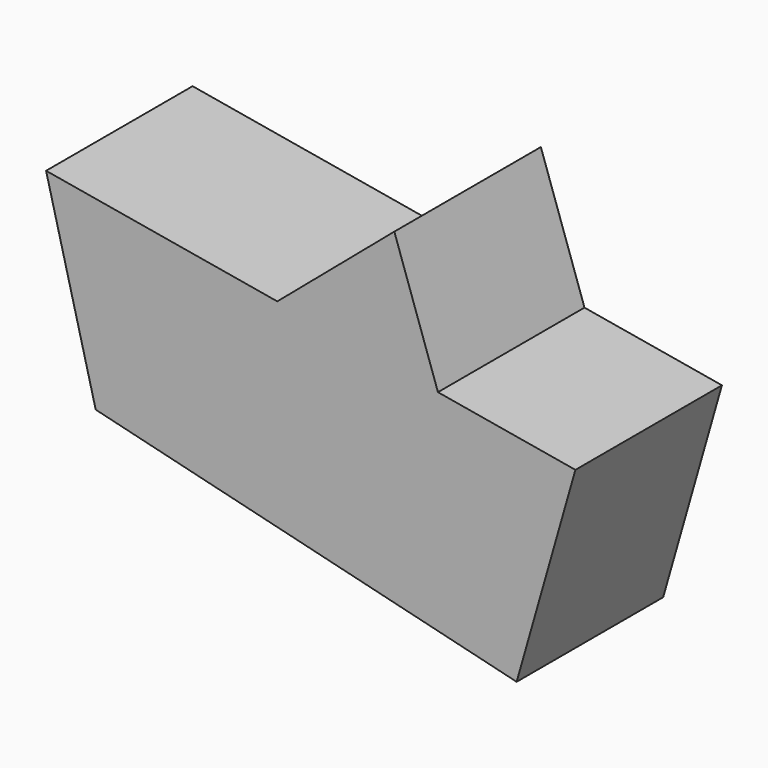
from build123d import *

# Parameters (mm, degrees)
F1_DEPTH = 25.4
F3_DEPTH = 25.4


with BuildPart() as f1:
    # F0 (on Front) → F1 (new body)
    with BuildSketch(Plane.XZ):
        Polygon((-58.37366, 14.244376), (0, 0), (-16.961619, 49.44808), align=None)
    extrude(amount=F1_DEPTH)

    # F2 (on face) → F3 (join)
    with BuildSketch(Plane.XZ.offset(25.4)):
        Polygon((8.147058, 28.529268), (-65.254316, 41.173346), (-58.37366, 14.244376), (0, 0), align=None)
    extrude(amount=-F3_DEPTH)


solid = f1.part
